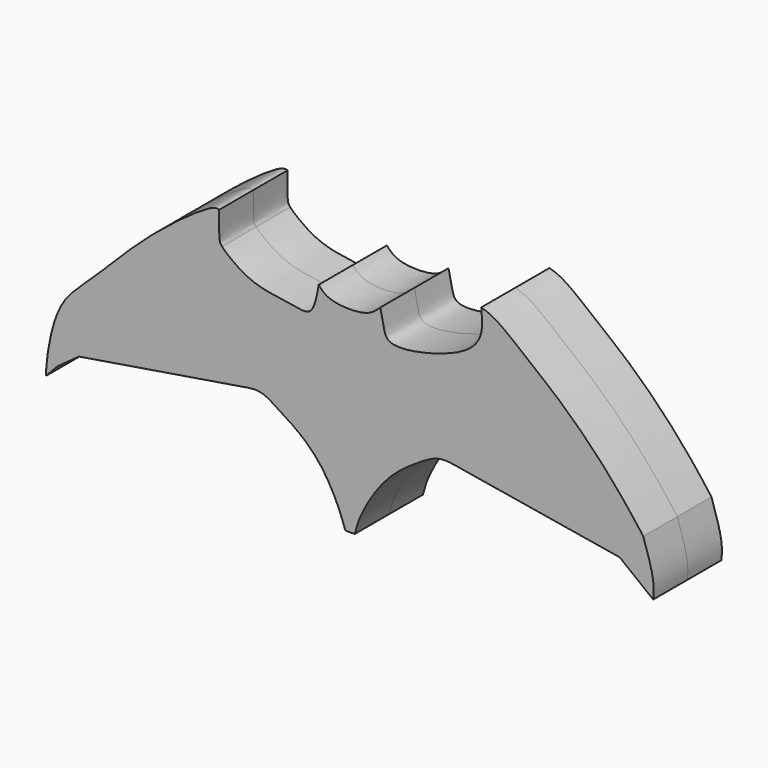
from build123d import *

# Parameters (mm, degrees)
F1_DEPTH = 12.7


with BuildPart() as f1:
    # F0 (on Front) → F1 (new body, symmetric)
    with BuildSketch(Plane.XZ):
        with BuildLine():
            add(Edge.make_bspline(
                [(-40.2776934206, 35.1917233848), (-39.8123265322, 36.1282814625), (-39.3830929456, 37.0505502613), (-38.953859359, 37.9728190601)],
                knots=[0.947059976, 0.947059976, 0.947059976, 0.947059976, 1, 1, 1, 1], degree=3))
            add(Edge.make_bspline(
                [(-38.953859359, 37.9728190601), (-39.3412745515, 38.0942053774), (-41.2347259268, 38.6874683521), (-61.4859654168, 23.9713996922), (-76.5783108677, 7.3102798618), (-87.346115598, -1.2952222977), (-90.3962924077, -16.8099945712), (-90.5812855703, -22.2977346681), (-90.4522033047, -22.2899740713), (-90.4421433806, -22.2893692553)],
                knots=[0, 0, 0, 0, 0.0594964598, 0.2907827461, 0.5279501993, 0.7020664352, 0.8924642538, 0.9916192868, 1, 1, 1, 1], degree=3))
            add(Edge.make_bspline(
                [(-90.4421433806, -22.2893692553), (-88.6908285148, -17.8588544537), (-85.2055447054, -9.0417069459), (-76.7181761634, 0.4161535469), (-47.5610724052, 22.4047166991), (-41.7760413171, 32.1762750136), (-40.2776934206, 35.1917233848)],
                knots=[0, 0, 0, 0, 0.211333784, 0.4205744096, 0.776608284, 0.947059976, 0.947059976, 0.947059976, 0.947059976], degree=3))
        make_face()
        with BuildLine():
            add(Edge.make_bspline(
                [(-38.953859359, 37.9728190601), (-38.9906482674, 34.871807205), (-39.047796615, 30.265050121), (-38.6104471907, 29.1576358648), (-38.1071069706, 28.5889803632)],
                knots=[0, 0, 0, 0, 0.1461939107, 0.2172428604, 0.2172428604, 0.2172428604, 0.2172428604], degree=3))
            add(Edge.make_bspline(
                [(-40.2776934206, 35.1917233848), (-39.8123265322, 36.1282814625), (-39.3830929456, 37.0505502613), (-38.953859359, 37.9728190601)],
                knots=[0.947059976, 0.947059976, 0.947059976, 0.947059976, 1, 1, 1, 1], degree=3))
            Line((-40.2776934206, 35.1917233848), (-40.2776934206, 16.0000242061))
            Line((-40.2776934206, 16.0000242061), (-74.2167965037, -9.7560574657))
            add(Edge.make_bspline(
                [(-71.4039367571, -9.4499675715), (-72.401575226, -9.5544638817), (-73.3394676265, -9.6539562253), (-74.2167965037, -9.7560574657)],
                knots=[0.7280179224, 0.7280179224, 0.7280179224, 0.7280179224, 0.7498430447, 0.7498430447, 0.7498430447, 0.7498430447], degree=3))
            Line((-71.4039367571, -9.4499675715), (-38.953859359, 15.015322715))
            Line((-38.953859359, 15.015322715), (38.2800959051, 15.015322715))
            Line((38.2800959051, 15.015322715), (71.5676033576, -10.0787399708))
            add(Edge.make_bspline(
                [(71.5676033576, -10.0787399708), (72.4844343067, -10.2354033292), (73.3456593292, -10.3814426367), (74.1409160758, -10.5150095338)],
                knots=[0.6951708947, 0.6951708947, 0.6951708947, 0.6951708947, 0.7125057217, 0.7125057217, 0.7125057217, 0.7125057217], degree=3))
            Line((74.1409160758, -10.5150095338), (38.5170668009, 16.3403237497))
            Line((38.5170668009, 16.3403237497), (38.5170668009, 29.4045320294))
            add(Edge.make_bspline(
                [(37.2925973069, 27.4816030604), (37.8025197566, 28.0881106116), (38.2122383015, 28.7278882544), (38.5170668009, 29.4045320294)],
                knots=[0.7485640259, 0.7485640259, 0.7485640259, 0.7485640259, 0.8028476948, 0.8028476948, 0.8028476948, 0.8028476948], degree=3))
            Line((37.2925973069, 27.4816030604), (37.2925973069, 16.2867400064))
            Line((37.2925973069, 16.2867400064), (-38.1071069706, 16.2867400064))
            Line((-38.1071069706, 16.2867400064), (-38.1071069706, 28.5889803632))
        make_face()
        with BuildLine():
            add(Edge.make_bspline(
                [(-38.1071069706, 28.5889803632), (-37.0928289951, 27.4430859404), (-32.0926903267, 23.438035061), (-25.2536487281, 21.0727261323), (-17.9301219592, 20.4391260424), (-12.2914743991, 18.9695386114), (-10.2093567978, 22.461065905), (-9.3597347174, 27.6663609239), (-9.3366745859, 27.9374029487)],
                knots=[0.2172428604, 0.2172428604, 0.2172428604, 0.2172428604, 0.3604131894, 0.5062109872, 0.6502845738, 0.7683080381, 0.8712831124, 0.9904730108, 0.9904730108, 0.9904730108, 0.9904730108], degree=3))
            Line((-38.1071069706, 28.5889803632), (-38.1071069706, 16.2867400064))
            Line((-38.1071069706, 16.2867400064), (37.2925973069, 16.2867400064))
            Line((37.2925973069, 16.2867400064), (37.2925973069, 27.4816030604))
            add(Edge.make_bspline(
                [(9.0216146782, 27.9374029487), (9.3869328062, 26.0689635621), (10.0465950747, 22.6953291737), (11.5426314677, 17.8436585571), (28.4844436086, 21.2626808269), (35.6172447308, 25.4889196848), (37.2925973069, 27.4816030604)],
                knots=[0, 0, 0, 0, 0.1590420299, 0.2871472151, 0.5702147794, 0.7485640259, 0.7485640259, 0.7485640259, 0.7485640259], degree=3))
            add(Edge.make_bspline(
                [(-9.3366745859, 27.9374029487), (-8.4914677318, 26.9637003703), (-6.3184807725, 24.4603569643), (5.0883368435, 24.1276496634), (7.8717811269, 26.8236799081), (9.0216146782, 27.9374029487)],
                knots=[0, 0, 0, 0, 0.2719842126, 0.6992585829, 1, 1, 1, 1], degree=3))
        make_face()
        with BuildLine():
            add(Edge.make_bspline(
                [(-74.2167965037, -9.7560574657), (-77.007953907, -10.0808850651), (-81.4936272881, -10.8042088425), (-84.5976548957, -14.0843301076), (-88.2665670283, -19.2350918475), (-90.4421433806, -22.2893692553)],
                knots=[0.7498430447, 0.7498430447, 0.7498430447, 0.7498430447, 0.8192780687, 0.8928362561, 1, 1, 1, 1], degree=3))
            Line((-90.4421433806, -22.2893692553), (-87.1752277017, -18.7813509256))
            Line((-87.1752277017, -18.7813509256), (-80.7249695063, -14.1044249758))
            Line((-80.7249695063, -14.1044249758), (-30.4452646524, -5.9236157686))
            add(Edge.make_bspline(
                [(-30.4452646524, -5.9236157686), (-29.1692303422, -5.7518238898), (-26.3196378495, -5.3681846381), (-21.0328720057, -8.7965857274), (-15.7668583106, -12.1485757509), (-8.972732686, -17.9501287669), (-3.4361064275, -27.6795673383), (-1.4833588352, -33.7284822398), (-1.3744203894, -33.9039001385), (-1.3602453982, -33.9267253876)],
                knots=[0, 0, 0, 0, 0.1232544084, 0.2752471733, 0.4315742831, 0.6160564586, 0.8323131621, 0.978180711, 1, 1, 1, 1], degree=3))
            Line((-1.3602453982, -33.9267253876), (1.3956587063, -33.9267253876))
            add(Edge.make_bspline(
                [(1.3956587063, -33.9267253876), (1.7858558115, -32.4267533649), (2.762545928, -28.6722205143), (8.6049406113, -18.387099282), (15.4451643084, -12.1613677397), (20.3378619103, -9.040848419), (26.2375389287, -5.2578241175), (30.484260366, -6.0274425096), (32.5801745057, -6.4072776586)],
                knots=[0, 0, 0, 0, 0.1407775534, 0.3523758717, 0.5402735058, 0.6885269123, 0.846276508, 1, 1, 1, 1], degree=3))
            Line((32.5801745057, -6.4072776586), (80.3172066808, -14.3650295213))
            add(Edge.make_bspline(
                [(80.3172066808, -14.3650295213), (83.6407815417, -16.9784296304), (86.9643564026, -19.5918297395), (90.2879312634, -22.2052298486)],
                knots=[0, 0, 0, 0, 12.6840092193, 12.6840092193, 12.6840092193, 12.6840092193], degree=3))
            add(Edge.make_bspline(
                [(74.1409160758, -10.5150095338), (75.4196734856, -10.7297825113), (79.5339633186, -11.4074262613), (81.4699755485, -11.6180395996), (84.3767357887, -14.5587291576), (88.0002620016, -19.2459867199), (90.2879312634, -22.2052298486)],
                knots=[0.7125057217, 0.7125057217, 0.7125057217, 0.7125057217, 0.740379787, 0.8159915961, 0.8838285292, 1, 1, 1, 1], degree=3))
            add(Edge.make_bspline(
                [(71.5676033576, -10.0787399708), (72.4844343067, -10.2354033292), (73.3456593292, -10.3814426367), (74.1409160758, -10.5150095338)],
                knots=[0.6951708947, 0.6951708947, 0.6951708947, 0.6951708947, 0.7125057217, 0.7125057217, 0.7125057217, 0.7125057217], degree=3))
            add(Edge.make_bspline(
                [(0, -29.742449522), (0.4664724682, -28.1799355132), (1.6626154918, -24.1732891226), (7.942956552, -12.7424472882), (21.8866544647, -0.8724981269), (31.6192908157, -3.0086152107), (61.0077144475, -8.2743204508), (71.5676033576, -10.0787399708)],
                knots=[0, 0, 0, 0, 0.0854049798, 0.2189980712, 0.3680363622, 0.4955115709, 0.6951708947, 0.6951708947, 0.6951708947, 0.6951708947], degree=3))
            add(Edge.make_bspline(
                [(0, -29.742449522), (-0.5495383048, -28.1531309616), (-1.9522581432, -24.0963279052), (-8.9149505936, -11.9227827763), (-16.9948519195, -5.92112566), (-22.4044072958, -2.3116193689), (-29.5488093705, -2.6202252138), (-56.6963704105, -7.938550132), (-69.3544192543, -9.2352935954), (-71.4039367571, -9.4499675715)],
                knots=[0, 0, 0, 0, 0.080810849, 0.2062731207, 0.3144633744, 0.3944820381, 0.4814375424, 0.6831810686, 0.7280179224, 0.7280179224, 0.7280179224, 0.7280179224], degree=3))
            add(Edge.make_bspline(
                [(-71.4039367571, -9.4499675715), (-72.401575226, -9.5544638817), (-73.3394676265, -9.6539562253), (-74.2167965037, -9.7560574657)],
                knots=[0.7280179224, 0.7280179224, 0.7280179224, 0.7280179224, 0.7498430447, 0.7498430447, 0.7498430447, 0.7498430447], degree=3))
        make_face()
        with BuildLine():
            add(Edge.make_bspline(
                [(-90.4421433806, -22.2893692553), (-88.6908285148, -17.8588544537), (-85.2055447054, -9.0417069459), (-76.7181761634, 0.4161535469), (-47.5610724052, 22.4047166991), (-41.7760413171, 32.1762750136), (-40.2776934206, 35.1917233848)],
                knots=[0, 0, 0, 0, 0.211333784, 0.4205744096, 0.776608284, 0.947059976, 0.947059976, 0.947059976, 0.947059976], degree=3))
            add(Edge.make_bspline(
                [(-74.2167965037, -9.7560574657), (-77.007953907, -10.0808850651), (-81.4936272881, -10.8042088425), (-84.5976548957, -14.0843301076), (-88.2665670283, -19.2350918475), (-90.4421433806, -22.2893692553)],
                knots=[0.7498430447, 0.7498430447, 0.7498430447, 0.7498430447, 0.8192780687, 0.8928362561, 1, 1, 1, 1], degree=3))
            Line((-74.2167965037, -9.7560574657), (-40.2776934206, 16.0000242061))
            Line((-40.2776934206, 16.0000242061), (-40.2776934206, 35.1917233848))
        make_face()
        with BuildLine():
            Line((38.5170668009, 29.4045320294), (37.2925973069, 27.4816030604))
            add(Edge.make_bspline(
                [(37.2925973069, 27.4816030604), (37.8025197566, 28.0881106116), (38.2122383015, 28.7278882544), (38.5170668009, 29.4045320294)],
                knots=[0.7485640259, 0.7485640259, 0.7485640259, 0.7485640259, 0.8028476948, 0.8028476948, 0.8028476948, 0.8028476948], degree=3))
        make_face()
        with BuildLine():
            add(Edge.make_bspline(
                [(38.5170668009, 29.4045320294), (39.6241703276, 31.8620276732), (39.3477087322, 34.8058105942), (39.0707291663, 37.7421304584)],
                knots=[0.8028476948, 0.8028476948, 0.8028476948, 0.8028476948, 1, 1, 1, 1], degree=3))
            Line((38.5170668009, 29.4045320294), (38.5170668009, 16.3403237497))
            Line((38.5170668009, 16.3403237497), (74.1409160758, -10.5150095338))
            add(Edge.make_bspline(
                [(74.1409160758, -10.5150095338), (75.4196734856, -10.7297825113), (79.5339633186, -11.4074262613), (81.4699755485, -11.6180395996), (84.3767357887, -14.5587291576), (88.0002620016, -19.2459867199), (90.2879312634, -22.2052298486)],
                knots=[0.7125057217, 0.7125057217, 0.7125057217, 0.7125057217, 0.740379787, 0.8159915961, 0.8838285292, 1, 1, 1, 1], degree=3))
            add(Edge.make_bspline(
                [(90.2879312634, -22.2052298486), (88.741008924, -18.4507456728), (85.2276746321, -9.9236479207), (69.4925415219, 3.1514456522), (47.7606812008, 19.2577180699), (41.8160392744, 31.9025764573), (39.0707291663, 37.7421304584)],
                knots=[0, 0, 0, 0, 0.2001083105, 0.4544813734, 0.7480726647, 1, 1, 1, 1], degree=3))
        make_face()
        with BuildLine():
            add(Edge.make_bspline(
                [(39.0707291663, 37.7421304584), (40.2422913979, 37.3901312173), (43.4193818148, 36.4355652665), (53.2343922004, 28.3044540122), (65.5532512122, 18.6319212548), (78.9050965015, 4.5977479567), (84.6709628521, -3.0542299125), (87.3172730207, -6.5661924891)],
                knots=[0, 0, 0, 0, 0.1150896641, 0.3121048623, 0.541810315, 0.7897086146, 1, 1, 1, 1], degree=3))
            add(Edge.make_bspline(
                [(90.2879312634, -22.2052298486), (88.741008924, -18.4507456728), (85.2276746321, -9.9236479207), (69.4925415219, 3.1514456522), (47.7606812008, 19.2577180699), (41.8160392744, 31.9025764573), (39.0707291663, 37.7421304584)],
                knots=[0, 0, 0, 0, 0.2001083105, 0.4544813734, 0.7480726647, 1, 1, 1, 1], degree=3))
            add(Edge.make_bspline(
                [(90.2879312634, -22.2052298486), (90.4181757057, -20.7275118544), (90.7454547336, -17.0142930767), (88.6055675564, -10.4925394633), (87.3172730207, -6.5661924891)],
                knots=[0, 0, 0, 0, 0.3979614676, 1, 1, 1, 1], degree=3))
        make_face()
        with BuildLine():
            Line((-38.953859359, 15.015322715), (-71.4039367571, -9.4499675715))
            add(Edge.make_bspline(
                [(0, -29.742449522), (-0.5495383048, -28.1531309616), (-1.9522581432, -24.0963279052), (-8.9149505936, -11.9227827763), (-16.9948519195, -5.92112566), (-22.4044072958, -2.3116193689), (-29.5488093705, -2.6202252138), (-56.6963704105, -7.938550132), (-69.3544192543, -9.2352935954), (-71.4039367571, -9.4499675715)],
                knots=[0, 0, 0, 0, 0.080810849, 0.2062731207, 0.3144633744, 0.3944820381, 0.4814375424, 0.6831810686, 0.7280179224, 0.7280179224, 0.7280179224, 0.7280179224], degree=3))
            add(Edge.make_bspline(
                [(0, -29.742449522), (0.4664724682, -28.1799355132), (1.6626154918, -24.1732891226), (7.942956552, -12.7424472882), (21.8866544647, -0.8724981269), (31.6192908157, -3.0086152107), (61.0077144475, -8.2743204508), (71.5676033576, -10.0787399708)],
                knots=[0, 0, 0, 0, 0.0854049798, 0.2189980712, 0.3680363622, 0.4955115709, 0.6951708947, 0.6951708947, 0.6951708947, 0.6951708947], degree=3))
            Line((71.5676033576, -10.0787399708), (38.2800959051, 15.015322715))
            Line((38.2800959051, 15.015322715), (-38.953859359, 15.015322715))
        make_face()
    extrude(amount=F1_DEPTH, both=True)


solid = f1.part
